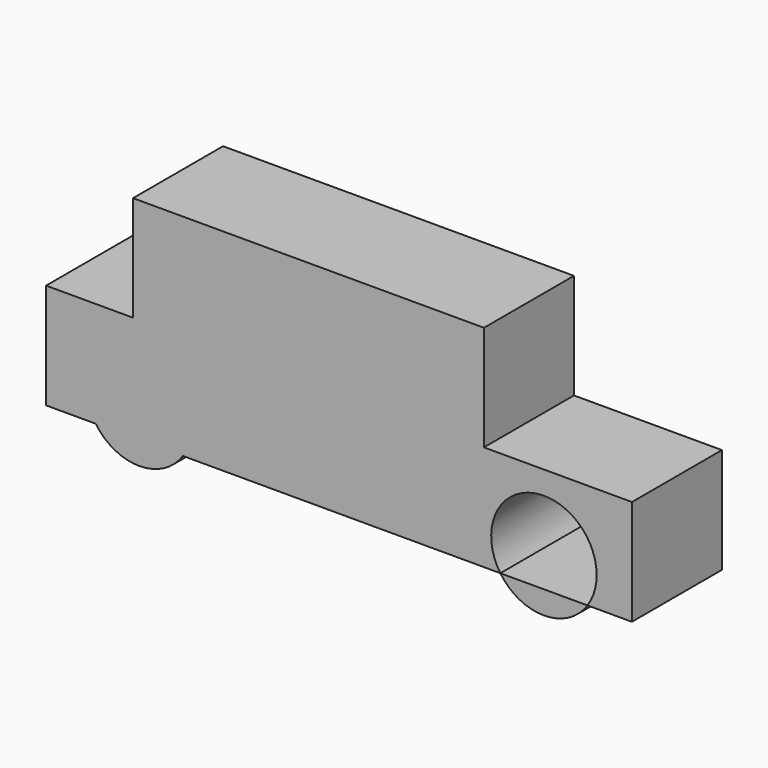
from build123d import *

# Parameters (mm, degrees)
F0_W     = 149.7483626008
F0_H     = 44.9277925491
F1_DEPTH = 48


with BuildPart() as f1:
    # F0 (on Front) → F1 (new body)
    with BuildSketch(Plane.XZ):
        with Locations((0.1737885177, 67.4638962746)):
            Rectangle(F0_W, F0_H)
        with BuildLine():
            ThreePointArc((-49.5158442855, 12.6637164503), (-78.6414845222, 34.1660626352), (-90.6137013036, 0))
            Line((-90.6137013036, 0), (-53.4179872674, 0))
            ThreePointArc((-53.4179872674, 0), (-50.5134981006, 6.0380762136), (-49.5158442855, 12.6637164503))
        make_face()
        with BuildLine():
            Line((-53.4179872674, 0), (-90.6137013036, 0))
            ThreePointArc((-90.6137013036, 0), (-72.0158442855, -9.8362835497), (-53.4179872674, 0))
        make_face()
        with BuildLine():
            Line((-74.7003927827, 45), (-111.8058860302, 45))
            Line((-111.8058860302, 45), (-111.8058860302, 0))
            Line((-111.8058860302, 0), (-90.6137013036, 0))
            ThreePointArc((-90.6137013036, 0), (-78.6414845222, 34.1660626352), (-49.5158442855, 12.6637164503))
            ThreePointArc((-49.5158442855, 12.6637164503), (-50.5134981006, 6.0380762136), (-53.4179872674, 0))
            Line((-53.4179872674, 0), (82.0352203053, 0))
            ThreePointArc((82.0352203053, 0), (94.0074370867, 34.1660626352), (123.1330773234, 12.6637164503))
            ThreePointArc((123.1330773234, 12.6637164503), (122.1354235083, 6.0380762136), (119.2309343415, 0))
            Line((119.2309343415, 0), (138.1941139698, 0))
            Line((138.1941139698, 0), (138.1941139698, 45))
            Line((138.1941139698, 45), (75.0479698181, 45))
            Line((75.0479698181, 45), (-74.7003927827, 45))
        make_face()
    extrude(amount=F1_DEPTH)


with BuildPart() as f1b:
    # F0 (on Front) → F1, piece 2 (new body)
    with BuildSketch(Plane.XZ):
        with BuildLine():
            Line((119.2309343415, 0), (82.0352203053, 0))
            ThreePointArc((82.0352203053, 0), (100.6330773234, -9.8362835497), (119.2309343415, 0))
        make_face()
    extrude(amount=F1_DEPTH)


solid = Compound([f1.part, f1b.part])
